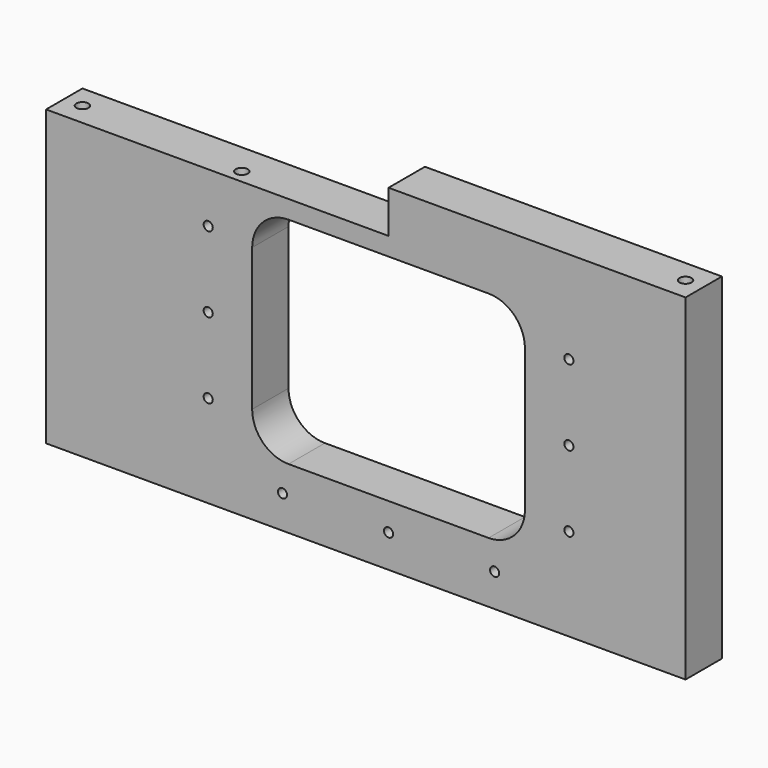
from build123d import *

# Parameters (mm, degrees)
F0_W      = 226
F0_H      = 111
F0_W_2    = 90
F0_H_2    = 71
F1_DEPTH  = 15
F2_R      = 12
F3_R      = 1.5
F4_DEPTH  = 25
F5_R      = 1.5
F6_DEPTH  = 25
F7_W      = 25
F7_H      = 15
F8_DEPTH  = 115.3
F9_W      = 201
F9_H      = 15
F10_DEPTH = 14
F11_W     = 88
F11_H     = 15
F12_DEPTH = 14
F13_W     = 81
F13_H     = 65
F14_DEPTH = 5
F15_W     = 10
F15_H     = 15
F16_DEPTH = 111
F17_W     = 81
F17_H     = 65
F18_DEPTH = 5
F19_R     = 2
F20_DEPTH = 25
F21_R     = 3.15
F22_DEPTH = 7.2
F23_R     = 2
F24_DEPTH = 25
F25_R     = 2
F26_DEPTH = 25


with BuildPart() as f1:
    # F0 (on Front) → F1 (new body)
    with BuildSketch(Plane.XZ):
        Rectangle(F0_W, F0_H)
        Rectangle(F0_W_2, F0_H_2, mode=Mode.SUBTRACT)
    extrude(amount=F1_DEPTH)

    # F2
    f2_edges = [f1.edges().sort_by_distance(p)[0] for p in [
        (45, -7.5, 35.5),
        (45, -7.5, -35.5),
        (-45, -7.5, -35.5),
        (-45, -7.5, 35.5),
    ]]
    fillet(f2_edges, radius=F2_R)

    # F3 (on face) → F4 (cut)
    with BuildSketch(Plane.XZ.offset(15)):
        with Locations((-59.5, 0)):
            Circle(F3_R)
        with Locations((-59.5, 25)):
            Circle(F3_R)
        with Locations((-59.5, -25)):
            Circle(F3_R)
        with Locations((59.5, 0)):
            Circle(F3_R)
        with Locations((59.5, 25)):
            Circle(F3_R)
        with Locations((59.5, -25)):
            Circle(F3_R)
    extrude(amount=-F4_DEPTH, mode=Mode.SUBTRACT)

    # F5 (on face) → F6 (cut)
    with BuildSketch(Plane.XZ.offset(15)):
        with Locations((0, -44.625)):
            Circle(F5_R)
        with Locations((35, -44.625)):
            Circle(F5_R)
        with Locations((0, 44.625)):
            Circle(F5_R)
        with Locations((-35, 44.625)):
            Circle(F5_R)
        with Locations((-35, -44.625)):
            Circle(F5_R)
        with Locations((35, 44.625)):
            Circle(F5_R)
    extrude(amount=-F6_DEPTH, mode=Mode.SUBTRACT)

    # F7 (on face) → F8 (cut)
    with BuildSketch(Plane.XY.offset(55.5)):
        with Locations((100.5, -7.5)):
            Rectangle(F7_W, F7_H)
    extrude(amount=-F8_DEPTH, mode=Mode.SUBTRACT)

    # F9 (on face) → F10 (cut)
    with BuildSketch(Plane.XY.offset(55.5)):
        with Locations((-12.5, -7.5)):
            Rectangle(F9_W, F9_H)
    extrude(amount=-F10_DEPTH, mode=Mode.SUBTRACT)

    # F11 (on face) → F12 (join)
    with BuildSketch(Plane.XY.offset(41.5)):
        with Locations((44, -7.5)):
            Rectangle(F11_W, F11_H)
    extrude(amount=F12_DEPTH)

    # F13 (on face) → F14 (join)
    with BuildSketch(Plane.XY.offset(55.5)):
        with Locations((22.5, -32.5)):
            Rectangle(F13_W, F13_H)
    extrude(amount=F14_DEPTH)

    # F15 (on face) → F16 (join)
    with BuildSketch(Plane.XY.offset(55.5)):
        with Locations((93, -7.5)):
            Rectangle(F15_W, F15_H)
    extrude(amount=-F16_DEPTH)

    # F17 (on face) → F18 (cut)
    with BuildSketch(Plane.XY.offset(60.5)):
        with Locations((22.5, -32.5)):
            Rectangle(F17_W, F17_H)
    extrude(amount=-F18_DEPTH, mode=Mode.SUBTRACT)

    # F19 (on face) → F20 (cut)
    with BuildSketch(Plane.XY.offset(41.5)):
        with Locations((-52, -10.5)):
            Circle(F19_R)
    extrude(amount=-F20_DEPTH, mode=Mode.SUBTRACT)

    # F21 (on face) → F22 (cut)
    with BuildSketch(Plane(origin=(0, 0, -55.5), x_dir=(1, 0, 0), z_dir=(0, 0, -1))):
        with Locations((0, 7.5)):
            Circle(F21_R)
    extrude(amount=-F22_DEPTH, mode=Mode.SUBTRACT)

    # F23 (on face) → F24 (cut)
    with BuildSketch(Plane.XY.offset(41.5)):
        with Locations((-107, -7.5)):
            Circle(F23_R)
    extrude(amount=-F24_DEPTH, mode=Mode.SUBTRACT)

    # F25 (on face) → F26 (cut)
    with BuildSketch(Plane.XY.offset(55.5)):
        with Locations((92, -7.5)):
            Circle(F25_R)
    extrude(amount=-F26_DEPTH, mode=Mode.SUBTRACT)


solid = f1.part
